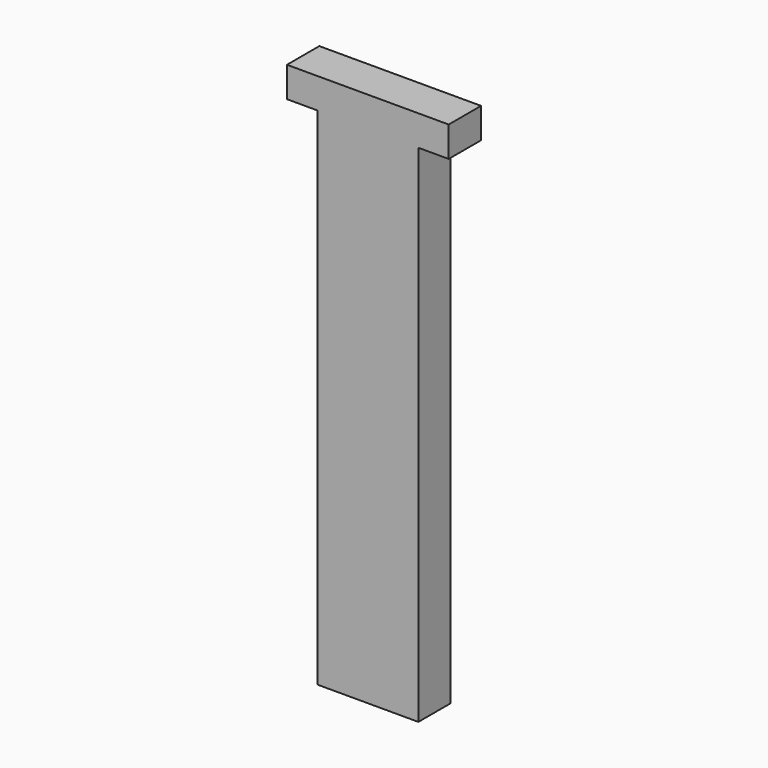
from build123d import *

# Parameters (mm, degrees)
F1_DEPTH = 4


with BuildPart() as f1:
    # F0 (on Front) → F1 (new body)
    with BuildSketch(Plane.XZ):
        Polygon((-5, 0), (0, 0), (0, 53), (-8, 53), (-8, 50), (-5, 50), align=None)
    extrude(amount=F1_DEPTH)

    # F2: F1 across face


with BuildPart() as f1_1:
    add(f1.part)
    add(f1.part.mirror(Plane(origin=(0, -2, 26.5), x_dir=(0, 1, 0), z_dir=(1, 0, 0))))


solid = f1_1.part
